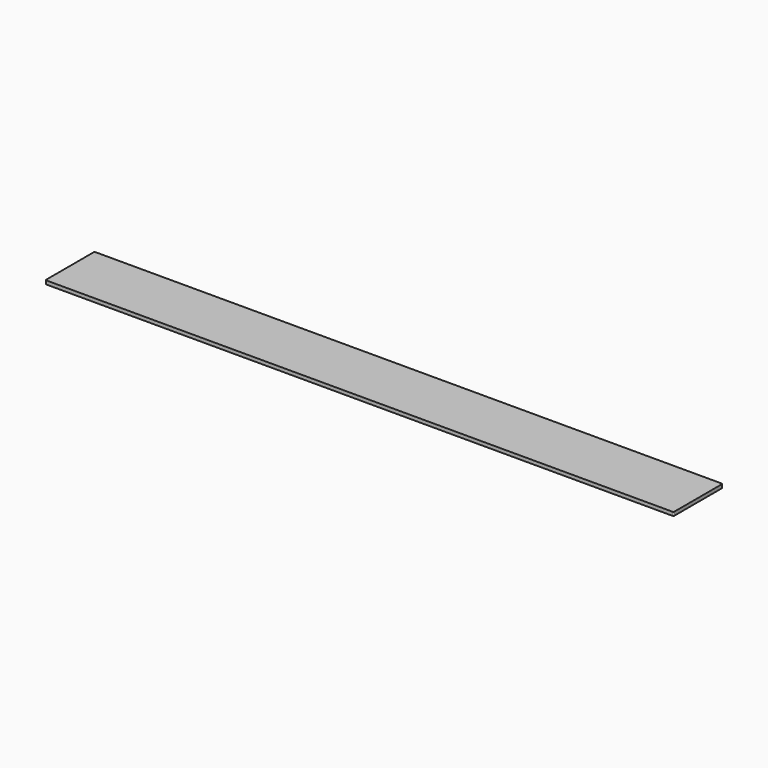
from build123d import *

# Parameters (mm, degrees)
PAD_DEPTH = 3


with BuildPart() as part:
    # Sketch → Pad (new body)
    with BuildSketch(Plane.XY):
        with BuildLine():
            ThreePointArc((-259.35, 25.4), (-260.057107, 25.107107), (-260.35, 24.4))
            Line((-260.35, -24.4), (-260.35, 24.4))
            ThreePointArc((-260.35, -24.4), (-260.057107, -25.107107), (-259.35, -25.4))
            Line((259.35, -25.4), (-259.35, -25.4))
            ThreePointArc((259.35, -25.4), (260.057107, -25.107107), (260.35, -24.4))
            Line((260.35, 24.4), (260.35, -24.4))
            ThreePointArc((260.35, 24.4), (260.057107, 25.107107), (259.35, 25.4))
            Line((-259.35, 25.4), (259.35, 25.4))
        make_face()
    extrude(amount=PAD_DEPTH)


solid = part.part
